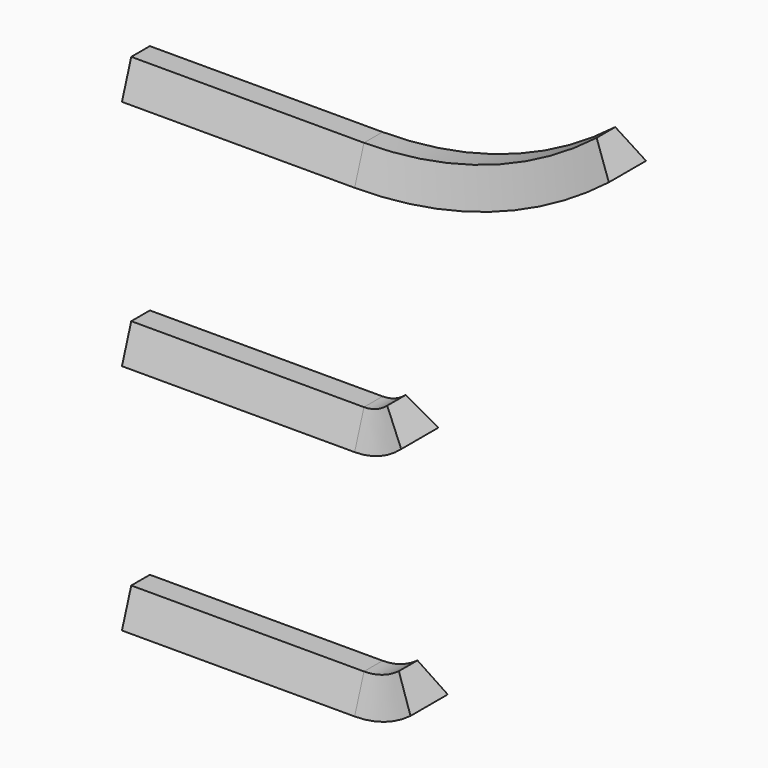
from build123d import *


with BuildPart() as f2:
    # F2: sweep along a path in F0
    with BuildLine(Plane.XZ) as f2_path:
        Line((0, -200), (100, -200))
        ThreePointArc((100, -200), (107.9056941504, -198.7170824513), (115, -195))
    # F1 (on Right) → F2 (sweep)
    with BuildSketch(Plane.YZ):
        Polygon((5, -200), (0, -200), (-5, -200), (-10, -215), (10, -215), align=None)
    sweep(path=f2_path.line)


with BuildPart() as f3:
    # F3: sweep along a path in F0
    with BuildLine(Plane.XZ) as f3_path:
        Line((0, -100), (100, -100))
        ThreePointArc((100, -100), (105.3523313466, -99.0125853844), (110, -96.1803398875))
    # F1 (on Right) → F3 (sweep)
    with BuildSketch(Plane.YZ):
        Polygon((5, -100), (0, -100), (0, -115), (10, -115), align=None)
        Polygon((0, -115), (0, -100), (-5, -100), (-10, -115), align=None)
    sweep(path=f3_path.line)


with BuildPart() as f4:
    # F4: sweep along a path in F0
    with BuildLine(Plane.XZ) as f4_path:
        Line((0, 0), (100, 0))
        ThreePointArc((100, 0), (152.8778368347, 8.8439413115), (200, 34.4131154255))
    # F1 (on Right) → F4 (sweep)
    with BuildSketch(Plane.YZ):
        Polygon((0, -15), (0, 0), (-5, 0), (-10, -15), align=None)
        Polygon((5, 0), (0, 0), (0, -15), (10, -15), align=None)
    sweep(path=f4_path.line)


solid = Compound([f2.part, f3.part, f4.part])
